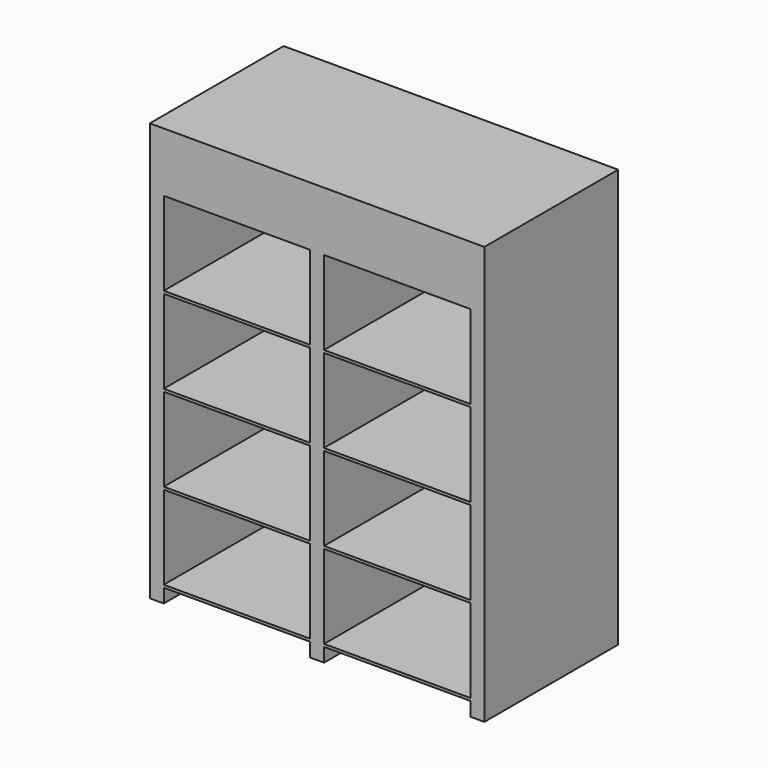
from build123d import *

# Parameters (mm, degrees)
F0_W     = 2438.4
F0_H     = 3048
F1_DEPTH = 1219.2
F2_W     = 3449.267149
F2_H     = 3677.94764
F2_W_2   = 1066.8
F2_H_2   = 609.6
F2_H_3   = 101.6
F3_DEPTH = 1219.201


with BuildPart() as f1:
    # F0 (on Front) → F1 (new body)
    with BuildSketch(Plane.XZ):
        with Locations((1.699055, 188.821944)):
            Rectangle(F0_W, F0_H)
    extrude(amount=F1_DEPTH)

    # F2 (on face) → F3 (cut, through all)
    with BuildSketch(Plane.XZ.offset(1219.2)):
        with Locations((4.70686, 94.855368)):
            Rectangle(F2_W, F2_H)
        Polygon((-49.100945, -1335.178056), (-1115.900945, -1335.178056), (-1217.500945, -1335.178056), (-1217.500945, 1712.821944), (1220.899055, 1712.821944), (1220.899055, -1335.178056), (1119.299055, -1335.178056), (52.499055, -1335.178056), align=None, mode=Mode.SUBTRACT)
        with Locations((-582.500945, 976.221944)):
            Rectangle(F2_W_2, F2_H_2)
        with Locations((-582.500945, 347.571944)):
            Rectangle(F2_W_2, F2_H_2)
        with Locations((585.899055, 347.571944)):
            Rectangle(F2_W_2, F2_H_2)
        with Locations((585.899055, 976.221944)):
            Rectangle(F2_W_2, F2_H_2)
        with Locations((585.899055, -281.078056)):
            Rectangle(F2_W_2, F2_H_2)
        with Locations((585.899055, -909.728056)):
            Rectangle(F2_W_2, F2_H_2)
        with Locations((-582.500945, -909.728056)):
            Rectangle(F2_W_2, F2_H_2)
        with Locations((-582.500945, -281.078056)):
            Rectangle(F2_W_2, F2_H_2)
        with Locations((-582.500945, -1284.378056)):
            Rectangle(F2_W_2, F2_H_3)
        with Locations((585.899055, -1284.378056)):
            Rectangle(F2_W_2, F2_H_3)
    extrude(amount=-F3_DEPTH, mode=Mode.SUBTRACT)


solid = f1.part
